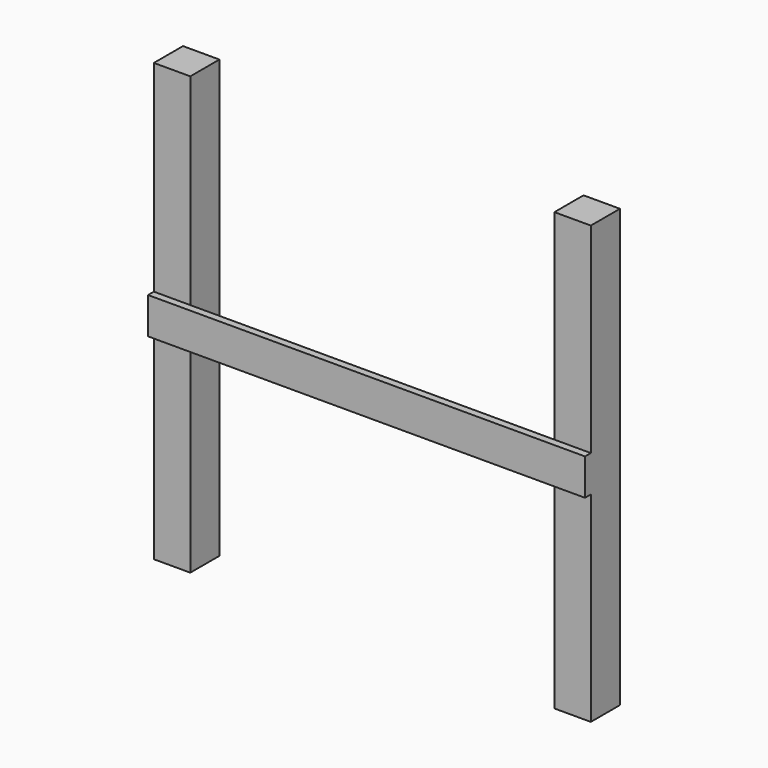
from build123d import *

# Parameters (mm, degrees)
F0_W     = 304.8
F0_H     = 3657.6
F1_DEPTH = 304.8
F2_W     = 304.8
F2_H     = 304.8
F2_W_2   = 3352.8
F3_DEPTH = 60.96
F4_W     = 304.8
F4_H     = 1676.4
F4_H_2   = 304.8
F5_DEPTH = 304.8


with BuildPart() as f1:
    # F0 (on Front) → F1 (new body)
    with BuildSketch(Plane.XZ):
        Rectangle(F0_W, F0_H)
    extrude(amount=F1_DEPTH)

    # F2 (on face) → F3 (join)
    with BuildSketch(Plane.XZ.offset(304.8)):
        with Locations((0, -9.3044210434)):
            Rectangle(F2_W, F2_H)
        with Locations((1828.8, -9.3044210434)):
            Rectangle(F2_W_2, F2_H)
    extrude(amount=F3_DEPTH)

    # F4 (on face) → F5 (join)
    with BuildSketch(Plane(origin=(0, -304.8, 0), x_dir=(-1, 0, 0), z_dir=(0, 1, 0))):
        with Locations((-3352.8, 981.2955789566)):
            Rectangle(F4_W, F4_H)
        with Locations((-3352.8, -9.3044210434)):
            Rectangle(F4_W, F4_H_2)
        with Locations((-3352.8, -999.9044210434)):
            Rectangle(F4_W, F4_H)
    extrude(amount=F5_DEPTH)


solid = f1.part
